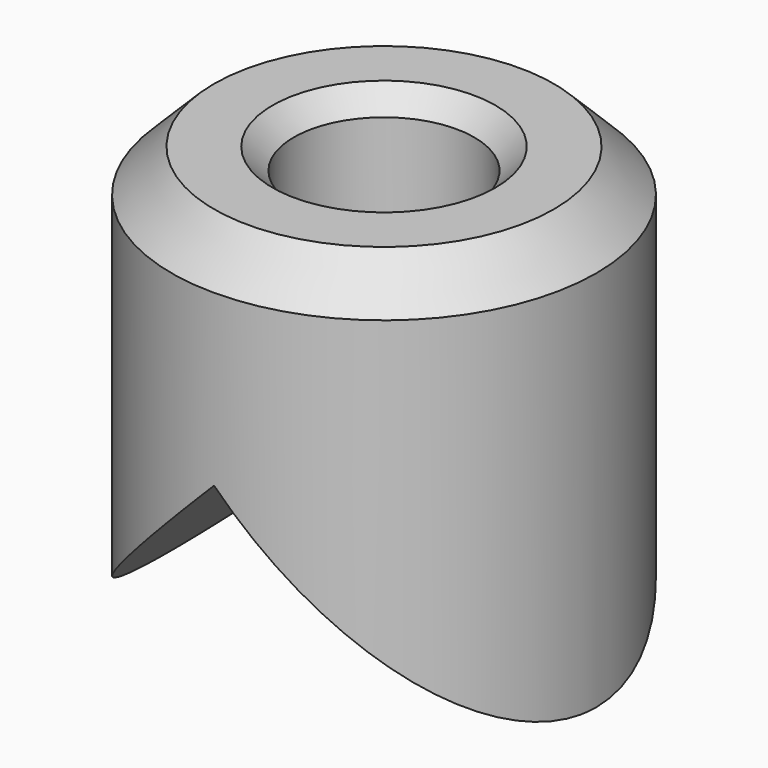
from build123d import *

# Parameters (mm, degrees)
F0_R     = 10
F0_R_2   = 4.25
F1_DEPTH = 20
F3_DEPTH = 12.5
F4_SIZE  = 2
F5_SIZE  = 1


with BuildPart() as f1:
    # F0 (on Top) → F1 (new body)
    with BuildSketch(Plane.XY):
        Circle(F0_R)
        Circle(F0_R_2, mode=Mode.SUBTRACT)
    extrude(amount=F1_DEPTH)

    # F2 (on Front) → F3 (cut, symmetric)
    with BuildSketch(Plane.XZ):
        Polygon((0, 10.010473), (-10.010473, 0), (10.010473, 0), align=None)
    extrude(amount=F3_DEPTH, both=True, mode=Mode.SUBTRACT)

    # F4
    f4_edges = [f1.edges().sort_by_distance(p)[0] for p in [
        (-10, 0, 20),
    ]]
    chamfer(f4_edges, length=F4_SIZE)

    # F5
    f5_edges = [f1.edges().sort_by_distance(p)[0] for p in [
        (-4.25, 0, 20),
    ]]
    chamfer(f5_edges, length=F5_SIZE)


solid = f1.part
